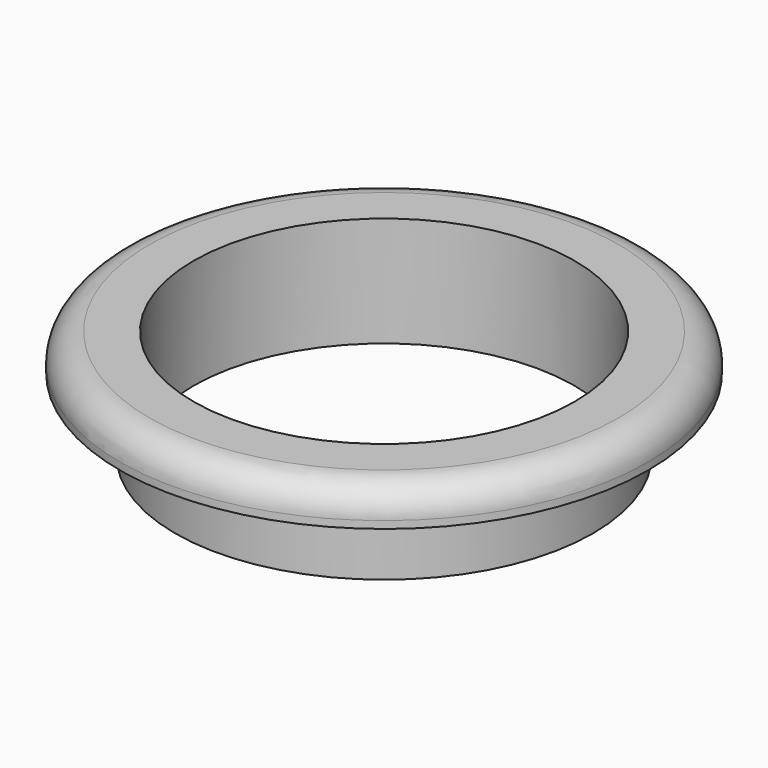
from build123d import *

# Parameters (mm, degrees)
F0_R     = 18
F0_R_2   = 13
F1_DEPTH = 2.5
F2_R     = 14.25
F2_R_2   = 13
F3_DEPTH = 5
F4_R     = 2


with BuildPart() as f1:
    # F0 (on Top) → F1 (new body)
    with BuildSketch(Plane.XY):
        Circle(F0_R)
        Circle(F0_R_2, mode=Mode.SUBTRACT)
    extrude(amount=F1_DEPTH)

    # F2 (on face) → F3 (join)
    with BuildSketch(Plane(origin=(0, 0, 0), x_dir=(1, 0, 0), z_dir=(0, 0, -1))):
        Circle(F2_R)
        Circle(F2_R_2, mode=Mode.SUBTRACT)
    extrude(amount=F3_DEPTH)

    # F4
    f4_edges = [f1.edges().sort_by_distance(p)[0] for p in [
        (-18, 0, 2.5),
    ]]
    fillet(f4_edges, radius=F4_R)


solid = f1.part
